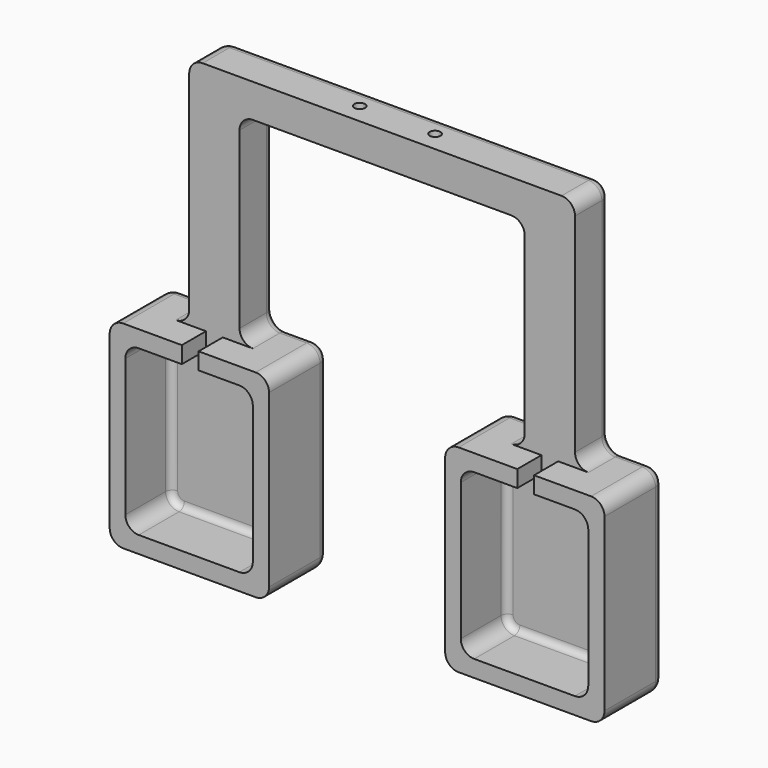
from build123d import *

# Parameters (mm, degrees)
SKETCH001_W       = 5
SKETCH001_H       = 10
SKETCH001_H_2     = 9
EXTRUDE_DEPTH     = 10
CYLINDER001_R     = 1.6
CYLINDER001_DEPTH = 20
CYLINDER002_R     = 1.6
CYLINDER002_DEPTH = 20
CYLINDER003_R     = 1.6
CYLINDER003_DEPTH = 20
CYLINDER_R        = 1.6
CYLINDER_DEPTH    = 20
BOX002_W          = 38
BOX002_H          = 17
BOX002_DEPTH      = 49
BOX003_W          = 47.5
BOX003_H          = 22
BOX003_DEPTH      = 59
BOX013_W          = 38
BOX013_H          = 17
BOX013_DEPTH      = 49
BOX014_W          = 47.5
BOX014_H          = 22
BOX014_DEPTH      = 59
BOX011_W          = 115
BOX011_H          = 13
BOX011_DEPTH      = 10
BOX012_W          = 15
BOX012_H          = 13
BOX012_DEPTH      = 60
BOX009_W          = 15
BOX009_H          = 13
BOX009_DEPTH      = 60
FILLET_R          = 4
FILLET001_R       = 2
FILLET002_R       = 3


with BuildPart() as extrude_body:
    # Sketch001 → Extrude (new body)
    with BuildSketch(Plane.XZ.offset(48)):
        with Locations((19, 4)):
            Rectangle(SKETCH001_W, SKETCH001_H)
        with Locations((119, 4.5)):
            Rectangle(SKETCH001_W, SKETCH001_H_2)
    extrude(amount=EXTRUDE_DEPTH)


with BuildPart() as extrude_body_1:
    # Extrude placement: moved
    add(extrude_body.part.moved(Location((0, 57, 45))))


with BuildPart() as cylinder001:
    # Cylinder001 → Cylinder001 (new body)
    with BuildSketch(Plane(origin=(80, 15, 109), x_dir=(1, 0, 0), z_dir=(0, 0, 1))):
        Circle(CYLINDER001_R)
    extrude(amount=CYLINDER001_DEPTH)


with BuildPart() as cylinder002:
    # Cylinder002 → Cylinder002 (new body)
    with BuildSketch(Plane(origin=(57.5, 32, 109), x_dir=(1, 0, 0), z_dir=(0, 0, 1))):
        Circle(CYLINDER002_R)
    extrude(amount=CYLINDER002_DEPTH)


with BuildPart() as cylinder003:
    # Cylinder003 → Cylinder003 (new body)
    with BuildSketch(Plane(origin=(80, 32, 109), x_dir=(1, 0, 0), z_dir=(0, 0, 1))):
        Circle(CYLINDER003_R)
    extrude(amount=CYLINDER003_DEPTH)


with BuildPart() as m3_cyl:
    # Cylinder → Cylinder (new body)
    with BuildSketch(Plane(origin=(57.5, 15, 109), x_dir=(1, 0, 0), z_dir=(0, 0, 1))):
        Circle(CYLINDER_R)
    extrude(amount=CYLINDER_DEPTH)

    # Fusion004: union Cylinder001, Cylinder002, Cylinder003
    add(cylinder001.part)
    add(cylinder002.part)
    add(cylinder003.part)


with BuildPart() as cube002:
    # Box002 → Box002 (new body)
    with BuildSketch(Plane(origin=(-0.34, 0, 0), x_dir=(1, 0, 0), z_dir=(0, 0, 1))):
        with Locations((19, 8.5)):
            Rectangle(BOX002_W, BOX002_H)
    extrude(amount=BOX002_DEPTH)


with BuildPart() as hollow_cubebase:
    # Box003 → Box003 (new body)
    with BuildSketch(Plane(origin=(-5, 0, -5), x_dir=(1, 0, 0), z_dir=(0, 0, 1))):
        with Locations((23.75, 11)):
            Rectangle(BOX003_W, BOX003_H)
    extrude(amount=BOX003_DEPTH)

    # Cut: cut Cube002
    add(cube002.part, mode=Mode.SUBTRACT)


with BuildPart() as cube006:
    # Box013 → Box013 (new body)
    with BuildSketch(Plane(origin=(-0.34, 0, 0), x_dir=(1, 0, 0), z_dir=(0, 0, 1))):
        with Locations((19, 8.5)):
            Rectangle(BOX013_W, BOX013_H)
    extrude(amount=BOX013_DEPTH)


with BuildPart() as hollow_cubebase001:
    # Box014 → Box014 (new body)
    with BuildSketch(Plane(origin=(-5, 0, -5), x_dir=(1, 0, 0), z_dir=(0, 0, 1))):
        with Locations((23.75, 11)):
            Rectangle(BOX014_W, BOX014_H)
    extrude(amount=BOX014_DEPTH)

    # Cut002: cut Cube006
    add(cube006.part, mode=Mode.SUBTRACT)


with BuildPart() as hollow_cubebase001_1:
    # Cut002 placement: moved
    add(hollow_cubebase001.part.moved(Location((100, 0, 0))))


with BuildPart() as base:
    # Box011 → Box011 (new body)
    with BuildSketch(Plane(origin=(11.5, 9, 114), x_dir=(1, 0, 0), z_dir=(0, 0, 1))):
        with Locations((57.5, 6.5)):
            Rectangle(BOX011_W, BOX011_H)
    extrude(amount=BOX011_DEPTH)


with BuildPart() as stand002:
    # Box012 → Box012 (new body)
    with BuildSketch(Plane(origin=(111.5, 9, 54), x_dir=(1, 0, 0), z_dir=(0, 0, 1))):
        with Locations((7.5, 6.5)):
            Rectangle(BOX012_W, BOX012_H)
    extrude(amount=BOX012_DEPTH)


with BuildPart() as gpsholder005:
    # Box009 → Box009 (new body)
    with BuildSketch(Plane(origin=(11.5, 9, 54), x_dir=(1, 0, 0), z_dir=(0, 0, 1))):
        with Locations((7.5, 6.5)):
            Rectangle(BOX009_W, BOX009_H)
    extrude(amount=BOX009_DEPTH)

    # Fusion005: union base, stand002
    add(base.part)
    add(stand002.part)

    # Fusion: union Hollow_CubeBase, Hollow_CubeBase001
    add(hollow_cubebase.part)
    add(hollow_cubebase001_1.part)

    # Cut007: cut m3_cyl
    add(m3_cyl.part, mode=Mode.SUBTRACT)

    # Cut011: cut Extrude body
    add(extrude_body_1.part, mode=Mode.SUBTRACT)

    # Fillet
    fillet_edges = [gpsholder005.edges().sort_by_distance(p)[0] for p in [
        (11.5, 15.5, 124),
        (126.5, 15.5, 124),
        (11.5, 15.5, 54),
        (126.5, 15.5, 54),
        (-5, 11, 54),
        (111.5, 15.5, 114),
        (111.5, 15.5, 54),
        (26.5, 15.5, 114),
        (26.5, 15.5, 54),
        (42.5, 11, 54),
        (95, 11, 54),
        (142.5, 11, 54),
        (-5, 11, -5),
        (42.5, 11, -5),
        (95, 11, -5),
        (142.5, 11, -5),
        (-0.34, 8.5, 49),
        (37.66, 8.5, 49),
        (99.66, 8.5, 49),
        (137.66, 8.5, 49),
        (37.66, 8.5, 0),
        (-0.34, 8.5, 0),
        (137.66, 8.5, 0),
        (99.66, 8.5, 0),
    ]]
    fillet(fillet_edges, radius=FILLET_R)

    # Fillet001
    fillet001_edges = [gpsholder005.edges().sort_by_distance(p)[0] for p in [
        (18.66, 17, 49),
        (118.66, 17, 49),
        (36.488427, 17, 47.828427),
        (37.66, 17, 24.5),
        (36.488427, 17, 1.171573),
        (18.66, 17, 0),
        (0.831573, 17, 47.828427),
        (0.831573, 17, 1.171573),
        (-0.34, 17, 24.5),
        (136.488427, 17, 47.828427),
        (137.66, 17, 24.5),
        (136.488427, 17, 1.171573),
        (118.66, 17, 0),
        (100.831573, 17, 47.828427),
        (100.831573, 17, 1.171573),
        (99.66, 17, 24.5),
    ]]
    fillet(fillet001_edges, radius=FILLET001_R)

    # Fillet002
    fillet002_edges = [gpsholder005.edges().sort_by_distance(p)[0] for p in [
        (42.5, 22, 24.5),
        (41.328427, 22, -3.828427),
        (41.328427, 22, 52.828427),
        (18.75, 22, -5),
        (34.5, 22, 54),
        (-3.828427, 22, -3.828427),
        (-5, 22, 24.5),
        (-3.828427, 22, 52.828427),
        (3.25, 22, 54),
        (9.5, 22, 54),
        (28.5, 22, 54),
        (19, 22, 54),
        (103.25, 22, 54),
        (134.5, 22, 54),
        (128.5, 22, 54),
        (119, 22, 54),
        (109.5, 22, 54),
        (118.75, 22, -5),
        (96.171573, 22, -3.828427),
        (141.328427, 22, -3.828427),
        (95, 22, 24.5),
        (142.5, 22, 24.5),
        (96.171573, 22, 52.828427),
        (141.328427, 22, 52.828427),
    ]]
    fillet(fillet002_edges, radius=FILLET002_R)


solid = gpsholder005.part
